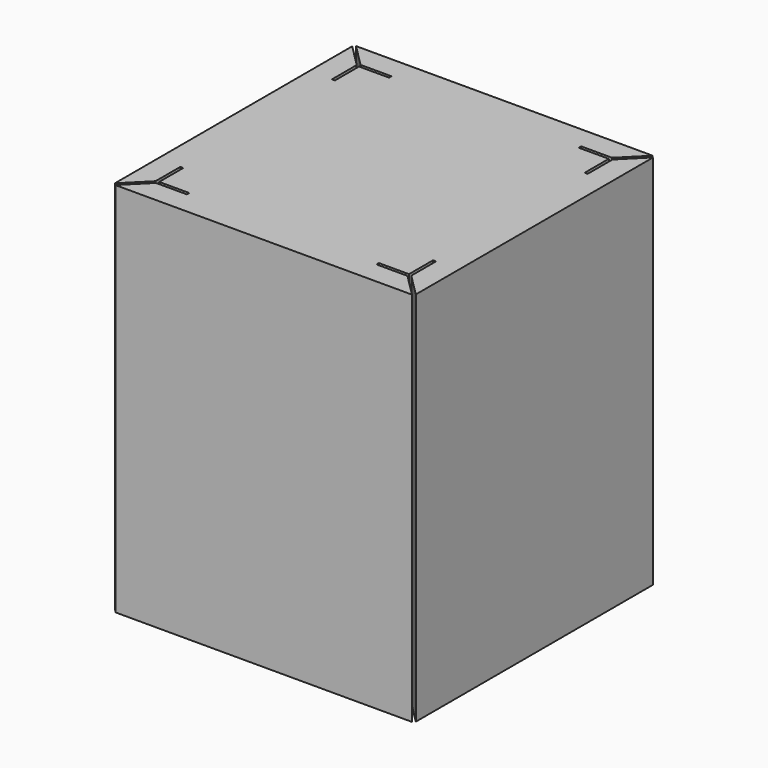
from build123d import *

# Parameters (mm, degrees)
SKETCH_W           = 40
SKETCH_H           = 40
PAD_DEPTH          = 50
POCKET_DEPTH       = 150.997689
POCKET_DEPTH_BACK  = 200.997689
POLARPATTERN_COUNT = 4


with BuildPart() as part:
    # Sketch → Pad (new body)
    with BuildSketch(Plane.XY):
        Rectangle(SKETCH_W, SKETCH_H)
    extrude(amount=PAD_DEPTH)

    # Sketch001 → Pocket (cut, two sides)
    with BuildSketch(Plane.XY) as pocket_sk:
        Polygon((-19.717157, 20), (-16.717157, 17), (-12.6, 17), (-12.6, 16.6), (-16.6, 16.6), (-16.6, 12.6), (-17, 12.6), (-17, 16.717157), (-20, 19.717157), (-20, 20), align=None)
    pocket = extrude(amount=-POCKET_DEPTH, mode=Mode.SUBTRACT) + extrude(pocket_sk.sketch, amount=POCKET_DEPTH_BACK, mode=Mode.SUBTRACT)

    # PolarPattern: Pocket ×4 about axis
    polarpattern_axis = Axis((0, 0, 0), (0, 0, 1))
    for i in range(1, POLARPATTERN_COUNT):
        add(pocket.rotate(polarpattern_axis, i * 360 / POLARPATTERN_COUNT), mode=Mode.SUBTRACT)


solid = part.part
